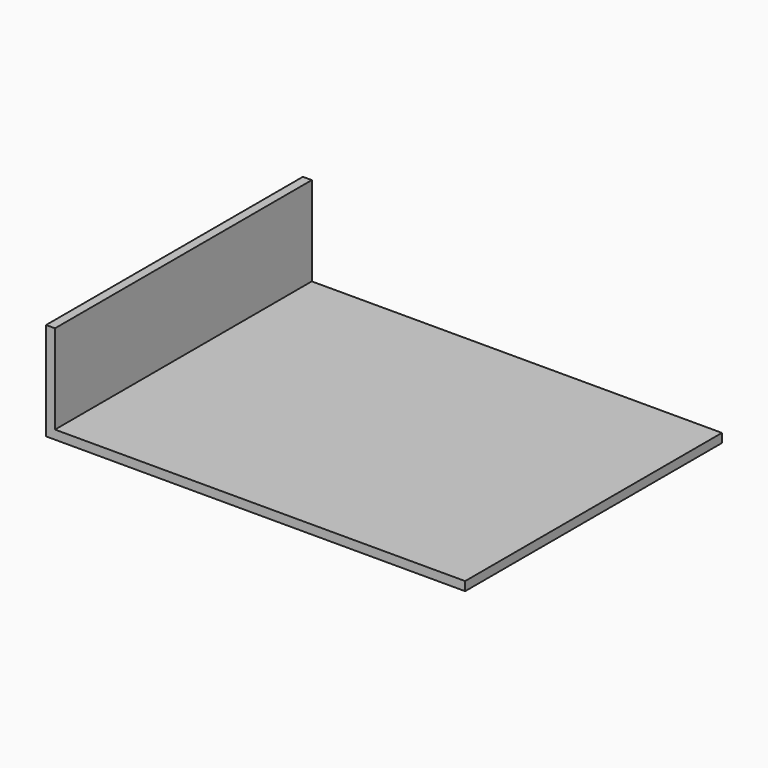
from build123d import *

# Parameters (mm, degrees)
F0_W     = 94
F0_H     = 72
F1_DEPTH = 2
F2_W     = 2
F2_H     = 22
F3_DEPTH = 36


with BuildPart() as f1:
    # F0 (on Top) → F1 (new body)
    with BuildSketch(Plane.XY):
        Rectangle(F0_W, F0_H)
    extrude(amount=F1_DEPTH)

    # F2 (on Front) → F3 (join, symmetric)
    with BuildSketch(Plane.XZ):
        with Locations((-46, 11)):
            Rectangle(F2_W, F2_H)
    extrude(amount=F3_DEPTH, both=True)


solid = f1.part
